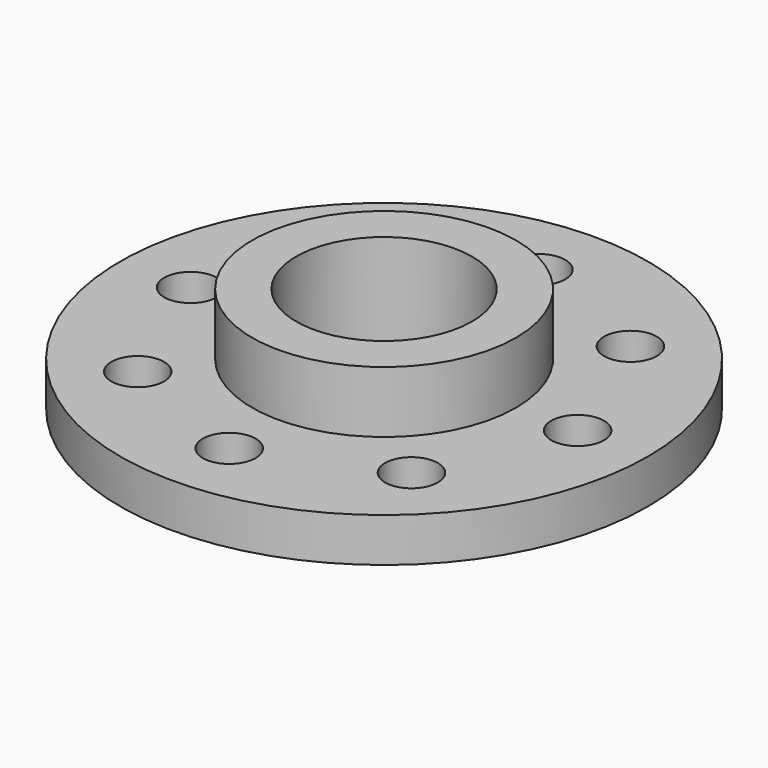
from build123d import *

# Parameters (mm, degrees)
CYLINDER003_R     = 3
CYLINDER003_DEPTH = 10
ARRAY_COUNT       = 8
CYLINDER002_R     = 10
CYLINDER002_DEPTH = 30
CYLINDER001_R     = 15
CYLINDER001_DEPTH = 12
CYLINDER_R        = 30
CYLINDER_DEPTH    = 5


with BuildPart() as array:
    # Cylinder003 → Cylinder003 (new body)
    with BuildSketch(Plane(origin=(22, 0, -1), x_dir=(1, 0, 0), z_dir=(0, 0, 1))):
        Circle(CYLINDER003_R)
    extrude(amount=CYLINDER003_DEPTH)

    # Array: Array ×8 about axis
    array_axis = Axis((0, 0, 0), (0, 0, 1))


with BuildPart() as array_1:
    add(array.part)
    for i in range(1, ARRAY_COUNT):
        add(array.part.rotate(array_axis, i * 360 / ARRAY_COUNT))


with BuildPart() as tubo_interior:
    # Cylinder002 → Cylinder002 (new body)
    with BuildSketch(Plane.XY.offset(-1)):
        Circle(CYLINDER002_R)
    extrude(amount=CYLINDER002_DEPTH)


with BuildPart() as obj1:
    # Cylinder001 → Cylinder001 (new body)
    with BuildSketch(Plane.XY):
        Circle(CYLINDER001_R)
    extrude(amount=CYLINDER001_DEPTH)


with BuildPart() as obj2:
    # Cylinder → Cylinder (new body)
    with BuildSketch(Plane.XY):
        Circle(CYLINDER_R)
    extrude(amount=CYLINDER_DEPTH)

    # Fusion: union  obj1
    add(obj1.part)

    # Cut: cut tubo interior
    add(tubo_interior.part, mode=Mode.SUBTRACT)

    # Cut001: cut Array
    add(array_1.part, mode=Mode.SUBTRACT)


solid = obj2.part
